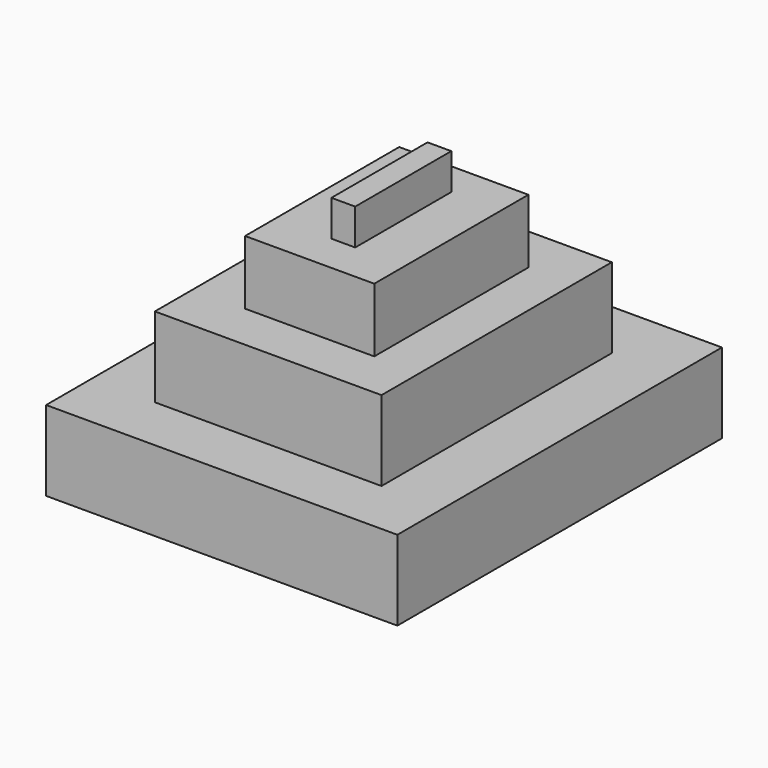
from build123d import *

# Parameters (mm, degrees)
F0_W     = 44.609893
F0_H     = 51.517231
F1_DEPTH = 10.16
F2_W     = 28.780576
F2_H     = 36.55133
F3_DEPTH = 20.32
F4_W     = 16.404928
F4_H     = 24.463489
F5_DEPTH = 28.448
F6_W     = 3.02196
F6_H     = 15.253705
F7_DEPTH = 33.02


with BuildPart() as f1:
    # F0 (on Top) → F1 (new body)
    with BuildSketch(Plane.XY):
        with Locations((0.575612, 1.439029)):
            Rectangle(F0_W, F0_H)
    extrude(amount=F1_DEPTH)

    # F2 (on Top) → F3 (join)
    with BuildSketch(Plane.XY):
        with Locations((0.719515, 1.151223)):
            Rectangle(F2_W, F2_H)
    extrude(amount=F3_DEPTH)

    # F4 (on Top) → F5 (join)
    with BuildSketch(Plane.XY):
        with Locations((1.151223, 1.151224)):
            Rectangle(F4_W, F4_H)
    extrude(amount=F5_DEPTH)

    # F6 (on Top) → F7 (join)
    with BuildSketch(Plane.XY):
        with Locations((1.51098, 1.439028)):
            Rectangle(F6_W, F6_H)
    extrude(amount=F7_DEPTH)


solid = f1.part
